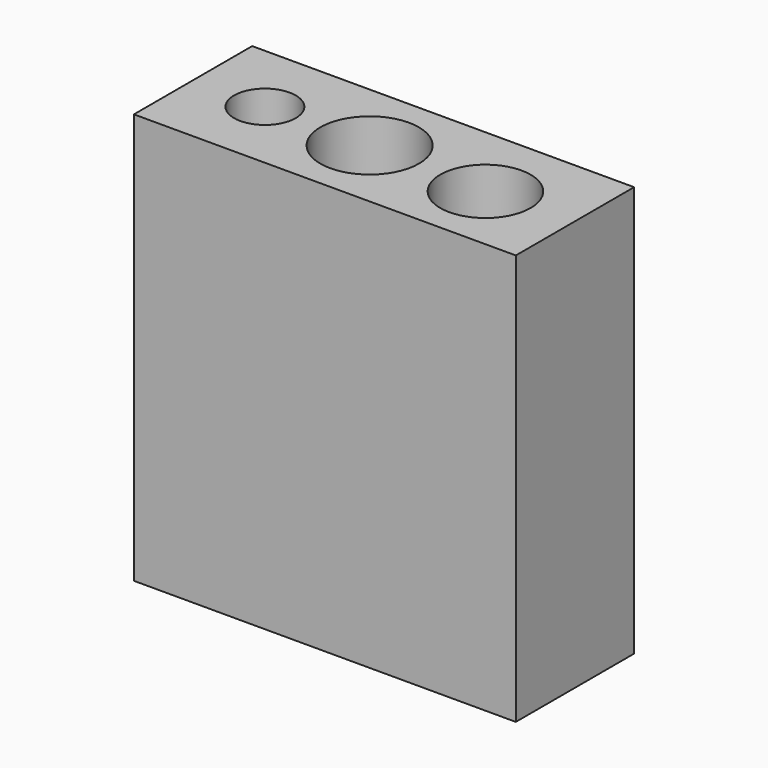
from build123d import *

# Parameters (mm, degrees)
F0_W     = 46.5
F0_H     = 18
F0_R     = 5.5
F0_R_2   = 3.75
F0_R_3   = 6
F1_DEPTH = 50
F2_DEPTH = 5


with BuildPart() as f1:
    # F0 (on Top) → F1 (new body)
    with BuildSketch(Plane.XY):
        with Locations((-40.379553, 32.145526)):
            Rectangle(F0_W, F0_H)
        with Locations((-27.629553, 31.645526)):
            Circle(F0_R, mode=Mode.SUBTRACT)
        with Locations((-54.879553, 32.145526)):
            Circle(F0_R_2, mode=Mode.SUBTRACT)
        with Locations((-42.129553, 32.145526)):
            Circle(F0_R_3, mode=Mode.SUBTRACT)
    extrude(amount=F1_DEPTH)

    # F0 (on Top) → F2 (join)
    with BuildSketch(Plane.XY):
        with Locations((-27.629553, 31.645526)):
            Circle(F0_R)
        with Locations((-42.129553, 32.145526)):
            Circle(F0_R_3)
        with Locations((-54.879553, 32.145526)):
            Circle(F0_R_2)
    extrude(amount=F2_DEPTH)


solid = f1.part
